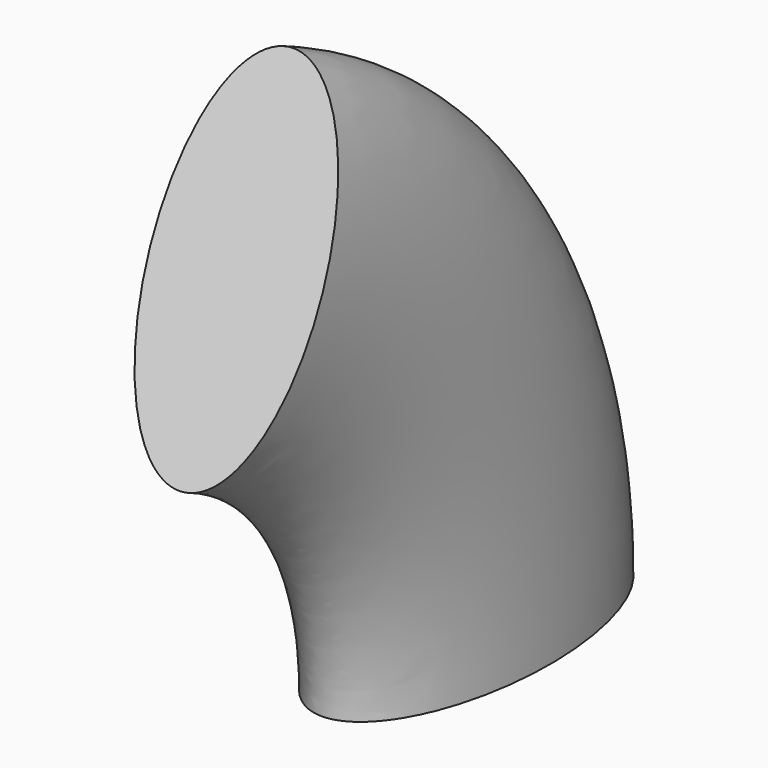
from build123d import *


with BuildPart() as f2:
    # F2: sweep along a path in F1
    with BuildLine(Plane.YZ) as f2_path:
        ThreePointArc((0, 0), (-7.053271, 23.555983), (-25.891739, 39.359309))
    # F0 (on Top) → F2 (sweep)
    with BuildSketch(Plane.XY):
        with BuildLine():
            add(Edge.make_bspline(
                [(0, 16.2769), (-13.16585, 16.2769), (-6.582925, -8.13845), (0, -32.553799), (6.582925, -8.13845), (13.16585, 16.2769), (0, 16.2769)],
                knots=[0, 0, 0, 2.094395, 2.094395, 4.18879, 4.18879, 6.283185, 6.283185, 6.283185], degree=2, weights=[1, 0.5, 1, 0.5, 1, 0.5, 1]))
        make_face()
    sweep(path=f2_path.line)


solid = f2.part
